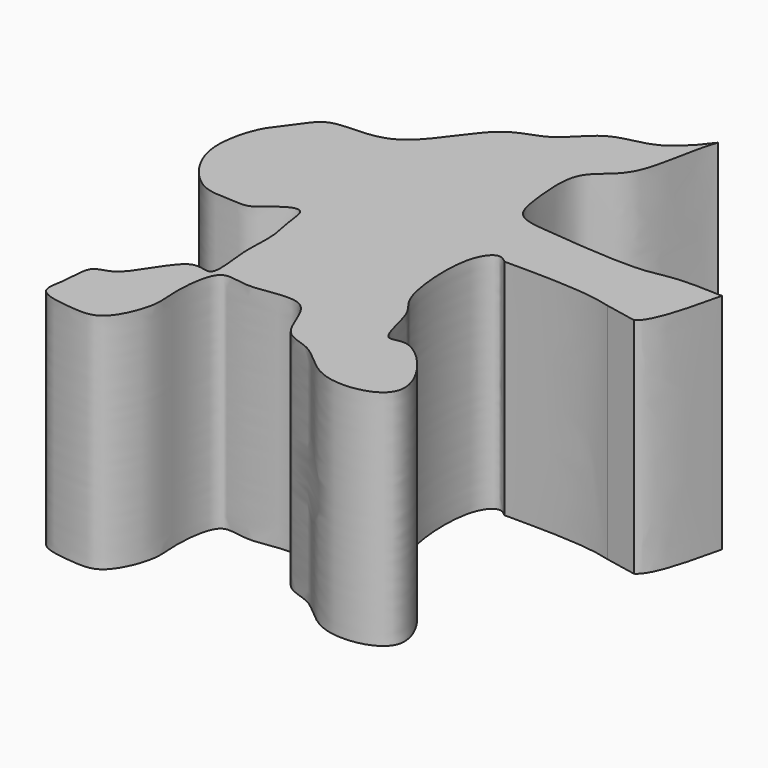
from build123d import *

# Parameters (mm, degrees)
F1_DEPTH = 25


with BuildPart() as f1:
    # F0 (on Top) → F1 (new body)
    with BuildSketch(Plane.XY):
        with BuildLine():
            add(Edge.make_bspline(
                [(10.8449272811, 24.330297485), (8.9441806208, 24.40897464), (5.4451025635, 24.5538111468), (2.0231368455, 23.4079401027), (-7.8848074418, 24.3188189117), (-12.7069895975, 24.7503879132), (-13.3522636795, 28.5547600505), (-13.8624286748, 33.9318117508), (-11.6727163301, 35.9537487027), (-8.9442542705, 38.1457914782), (-8.3537765089, 44.6361753092), (-7.5561344272, 46.7103008364), (-7.5389492351, 46.7536506586)],
                knots=[0, 0, 0, 0, 0.1059809964, 0.1951000556, 0.3412858606, 0.4375257531, 0.5218093486, 0.6277903168, 0.7027302632, 0.7875356992, 0.9214177215, 0.9243325335, 0.9243325335, 0.9243325335, 0.9243325335], degree=3))
            add(Edge.make_bspline(
                [(-7.5389492351, 46.7536506586), (-8.6776751357, 45.2377747448), (-11.2568264718, 42.3697869952), (-16.259228355, 42.454779814), (-19.3044545055, 37.7878813149), (-24.5174716976, 37.445044432), (-28.9870819361, 27.7380042022), (-36.6781650227, 29.5024311378), (-38.3813666664, 26.3547555208), (-40.2085211772, 24.3939014073), (-41.2657217611, 21.6546934973), (-41.8757244299, 16.833659423), (-37.8016114133, 11.5690808139), (-34.3689611677, 11.8641643385), (-32.1165473269, 11.4300041798), (-30.6270371841, 12.8116307362), (-29.1732130535, 13.918270684), (-27.6531890019, 14.1454580604), (-27.5409403409, 11.516610862), (-26.672629637, 8.4757819919), (-27.2536089923, 4.8153021598), (-26.0576721012, -1.1350962556), (-29.7492261323, 1.3546606234), (-32.6370444627, -5.9263417318), (-35.9039575714, -5.4828543088), (-35.6155038176, -9.3008227161), (-36.7173779137, -12.4187028791), (-32.0096553556, -12.9787309644), (-28.6618354319, -13.1729616835), (-26.5150834081, -7.956319245), (-27.1342946701, -5.4362843671), (-26.5813792753, 1.3030164356), (-22.6811655201, -0.7296906578), (-15.9805601745, 1.7925584791), (-15.0567722461, -5.4489329644), (-10.7068760145, -5.5082349421), (-7.3824897967, -10.5422017243), (3.5869367221, -8.5005149781), (-4.5774082593, 1.5033956114), (-7.4859581272, -1.2220295796), (-8.2474656414, 5.0819676212), (-10.7480661452, 6.4155772791), (-11.5206136019, 15.9108393812), (-9.2193354574, 18.4780993908), (-8.3803723241, 17.786424301), (-8.0441618338, 17.5092387944)],
                knots=[0.0105136356, 0.0105136356, 0.0105136356, 0.0105136356, 0.0327627829, 0.0589351833, 0.084736236, 0.1101491985, 0.1458903745, 0.1755283291, 0.1957385144, 0.2147391377, 0.2344580147, 0.2599500207, 0.2886425384, 0.309599731, 0.3265944033, 0.3427293877, 0.358864372, 0.3708814307, 0.388135636, 0.4090928322, 0.4331269269, 0.4577108257, 0.474705498, 0.5047713065, 0.5227409711, 0.5436981698, 0.562698791, 0.5856260324, 0.606583225, 0.6319961853, 0.65281032, 0.6794590444, 0.7002731883, 0.7284556618, 0.7552911485, 0.7772994196, 0.8052460326, 0.835840696, 0.8703757254, 0.8873703921, 0.9127083931, 0.9332272219, 0.9682928993, 0.98729353, 1, 1, 1, 1], degree=3))
            add(Edge.make_bspline(
                [(4.1987656926, 16.6347442816), (1.2861433283, 17.5032118536), (-3.3790092528, 17.506225324), (-8.0441618338, 17.5092387944)],
                knots=[0.5822515901, 0.5822515901, 0.5822515901, 0.5822515901, 1, 1, 1, 1], degree=3))
            add(Edge.make_bspline(
                [(4.1987656926, 16.6347442816), (5.3647575486, 16.4015452481), (6.5307494046, 16.1683462146), (7.6967412606, 15.9351471812)],
                knots=[1.7836247627, 1.7836247627, 1.7836247627, 1.7836247627, 5.3508742882, 5.3508742882, 5.3508742882, 5.3508742882], degree=3))
            add(Edge.make_bspline(
                [(10.8449272811, 24.330297485), (9.9580257508, 20.5198069728), (9.0711242205, 16.7093164606), (7.6967412606, 15.9351471812)],
                knots=[0, 0, 0, 0, 0.3570422634, 0.3570422634, 0.3570422634, 0.3570422634], degree=3))
        make_face()
    extrude(amount=F1_DEPTH)


solid = f1.part
